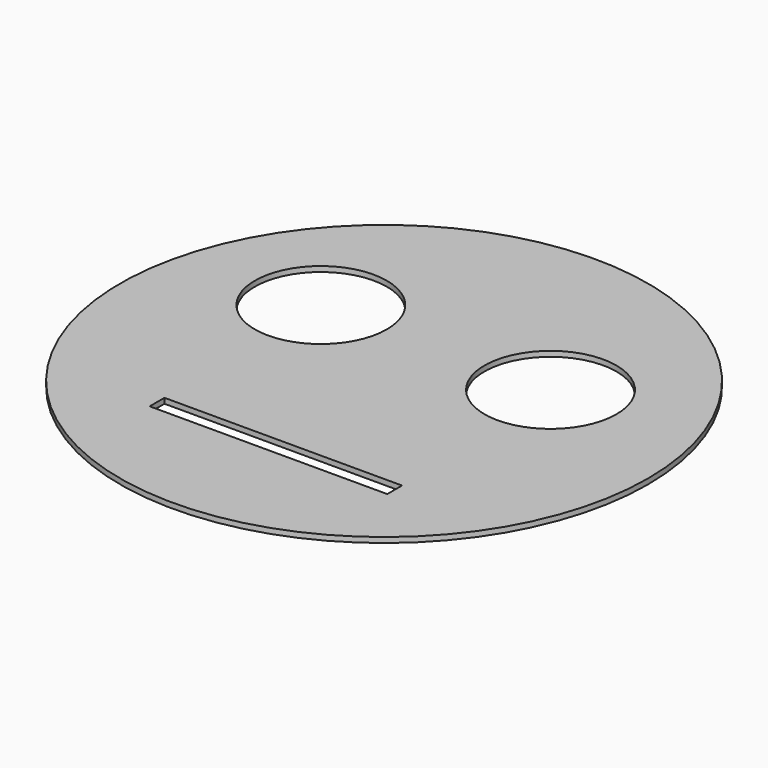
from build123d import *

# Parameters (mm, degrees)
CYLINDER002_R     = 25
CYLINDER002_DEPTH = 2
CYLINDER001_R     = 25
CYLINDER001_DEPTH = 2
BOX_W             = 90
BOX_H             = 7
BOX_DEPTH         = 2
CYLINDER_R        = 100
CYLINDER_DEPTH    = 2


with BuildPart() as cylinder002:
    # Cylinder002 → Cylinder002 (new body)
    with BuildSketch(Plane(origin=(42, 26.3, 0), x_dir=(1, 0, 0), z_dir=(0, 0, 1))):
        Circle(CYLINDER002_R)
    extrude(amount=CYLINDER002_DEPTH)


with BuildPart() as cylinder001:
    # Cylinder001 → Cylinder001 (new body)
    with BuildSketch(Plane(origin=(-45, 26.3, 0), x_dir=(1, 0, 0), z_dir=(0, 0, 1))):
        Circle(CYLINDER001_R)
    extrude(amount=CYLINDER001_DEPTH)


with BuildPart() as cube:
    # Box → Box (new body)
    with BuildSketch(Plane(origin=(-44, -56, 0), x_dir=(1, 0, 0), z_dir=(0, 0, 1))):
        with Locations((45, 3.5)):
            Rectangle(BOX_W, BOX_H)
    extrude(amount=BOX_DEPTH)


with BuildPart() as cut002:
    # Cylinder → Cylinder (new body)
    with BuildSketch(Plane.XY):
        Circle(CYLINDER_R)
    extrude(amount=CYLINDER_DEPTH)

    # Cut: cut Cube
    add(cube.part, mode=Mode.SUBTRACT)

    # Cut001: cut Cylinder001
    add(cylinder001.part, mode=Mode.SUBTRACT)

    # Cut002: cut Cylinder002
    add(cylinder002.part, mode=Mode.SUBTRACT)


solid = cut002.part
